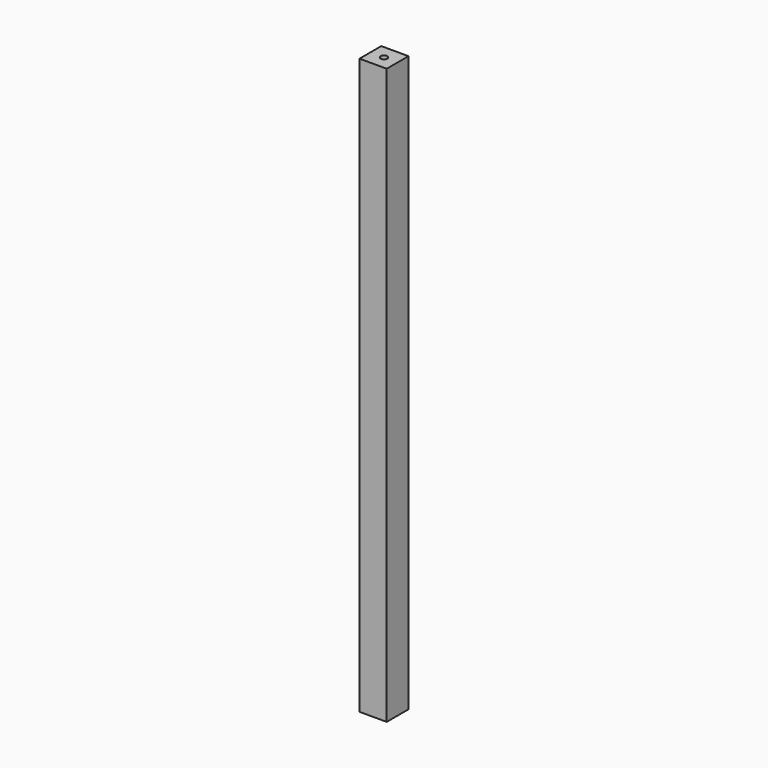
from build123d import *

# Parameters (mm, degrees)
F0_W     = 45
F0_H     = 45
F1_DEPTH = 950
F3_R     = 5.5
F4_DEPTH = 100
F2_R     = 5.5
F5_DEPTH = 100


with BuildPart() as f1:
    # F0 (on Top) → F1 (new body)
    with BuildSketch(Plane.XY):
        Rectangle(F0_W, F0_H)
    extrude(amount=F1_DEPTH)

    # F3 (on face) → F4 (cut)
    with BuildSketch(Plane.XY.offset(950)):
        Circle(F3_R)
    extrude(amount=-F4_DEPTH, mode=Mode.SUBTRACT)

    # F2 (on face) → F5 (cut)
    with BuildSketch(Plane(origin=(0, 0, 0), x_dir=(1, 0, 0), z_dir=(0, 0, -1))):
        Circle(F2_R)
    extrude(amount=-F5_DEPTH, mode=Mode.SUBTRACT)


solid = f1.part
